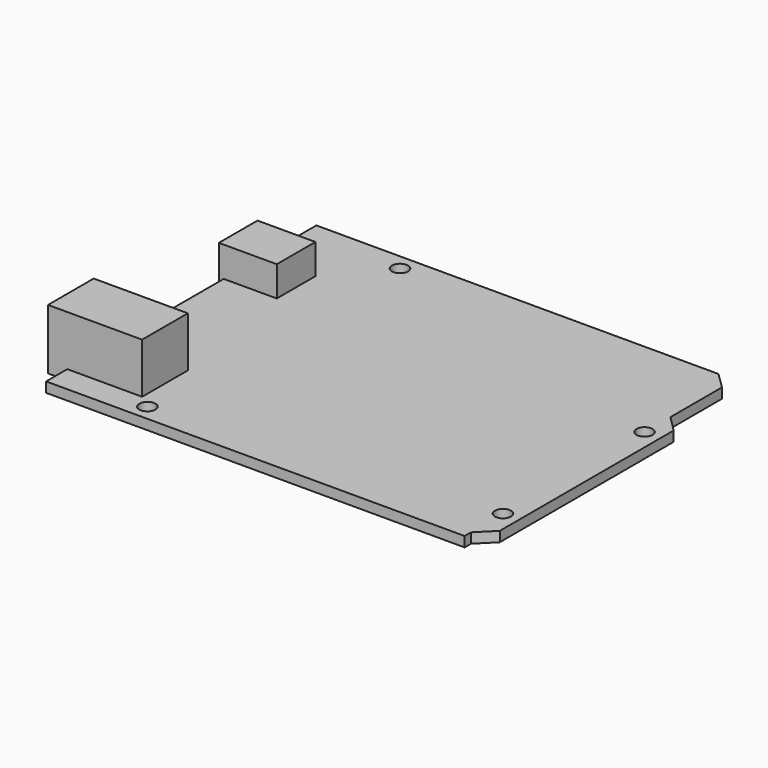
from build123d import *

# Parameters (mm, degrees)
F0_R     = 1.27
F1_DEPTH = 1.5875
F0_W     = 8.382
F0_H     = 7.62
F0_W_2   = 0.762
F2_DEPTH = 6.35
F0_W_3   = 11.811
F0_H_2   = 9.017
F0_W_4   = 3.048
F3_DEPTH = 9.525


with BuildPart() as f1:
    # F0 (on Top) → F1 (new body)
    with BuildSketch(Plane.XY):
        Polygon((-34.29, -26.67), (31.79811, -26.67), (31.79811, -25.4), (34.314021, -22.884089), (34.314021, 11.430663), (31.774021, 13.970663), (31.774021, 24.13), (29.21, 26.67), (-34.29, 26.67), (-34.29, 16.002), (-25.908, 16.002), (-25.908, 8.382), (-34.29, 8.382), (-34.29, -13.462), (-22.479, -13.462), (-22.479, -22.479), (-34.29, -22.479), align=None)
        with Locations((-20.32, -24.13)):
            Circle(F0_R, mode=Mode.SUBTRACT)
        with Locations((31.75, -19.05)):
            Circle(F0_R, mode=Mode.SUBTRACT)
        with Locations((-19.05, 24.13)):
            Circle(F0_R, mode=Mode.SUBTRACT)
        with Locations((31.75, 8.89)):
            Circle(F0_R, mode=Mode.SUBTRACT)
    extrude(amount=F1_DEPTH)

    # F0 (on Top) → F2 (join)
    with BuildSketch(Plane.XY):
        with Locations((-30.099, 12.192)):
            Rectangle(F0_W, F0_H)
        with Locations((-34.671, 12.192)):
            Rectangle(F0_W_2, F0_H)
    extrude(amount=F2_DEPTH)

    # F0 (on Top) → F3 (join)
    with BuildSketch(Plane.XY):
        with Locations((-28.3845, -17.9705)):
            Rectangle(F0_W_3, F0_H_2)
        with Locations((-35.814, -17.9705)):
            Rectangle(F0_W_4, F0_H_2)
    extrude(amount=F3_DEPTH)


solid = f1.part
